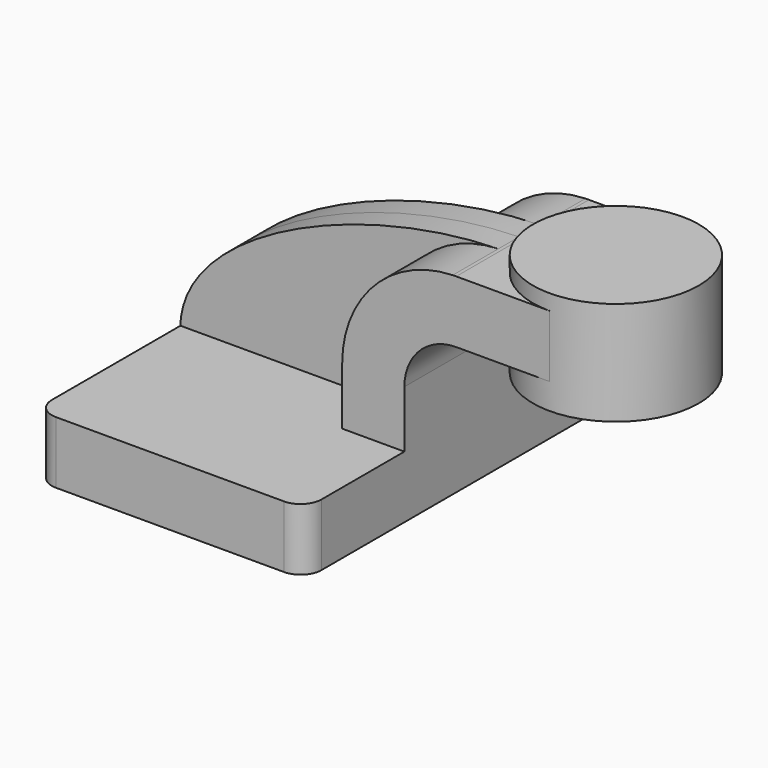
from build123d import *

# Parameters (mm, degrees)
F0_W     = 25.4
F0_H     = 19.05
F1_DEPTH = 25.4
F2_DEPTH = 63.5
F3_DEPTH = 7.9375
F5_R     = 6.35


with BuildPart() as f1:
    # F0 (on Front) → F1 (new body, symmetric)
    with BuildSketch(Plane.XZ):
        with Locations((73.025, 52.4002)):
            Rectangle(F0_W, F0_H)
        with BuildLine():
            Line((22.225, 27.0002), (22.225, 9.525))
            Line((22.225, 9.525), (41.275, 9.525))
            Line((41.275, 9.525), (41.275, 27.0002))
            ThreePointArc((41.275, 27.0002), (45.9246798487, 38.2255201513), (57.15, 42.8752))
            Line((57.15, 42.8752), (60.325, 42.8752))
            Line((60.325, 42.8752), (60.325, 61.9252))
            Line((60.325, 61.9252), (57.15, 61.9252))
            add(Edge.make_bspline(
                [(57.15, 61.9252), (56.7952901296, 61.9213576462), (56.4397740543, 61.9159247713), (56.0834888873, 61.9089120795)],
                knots=[0, 0, 0, 0, 0.9203452137, 0.9203452137, 0.9203452137, 0.9203452137], degree=3))
            ThreePointArc((56.0834888873, 61.9089120795), (32.0800625688, 51.3159122494), (22.225, 27.0002))
        make_face()
    extrude(amount=F1_DEPTH, both=True)

    # F0 (on Front) → F2 (join, symmetric)
    with BuildSketch(Plane.XZ):
        Polygon((22.225, 9.525), (-41.275, 9.525), (-41.275, -9.525), (41.275, -9.525), (41.275, 9.525), align=None)
    extrude(amount=F2_DEPTH, both=True)

    # F0 (on Front) → F3 (join, symmetric)
    with BuildSketch(Plane.XZ):
        with BuildLine():
            add(Edge.make_bspline(
                [(56.0834888873, 61.9089120795), (13.2740013728, 61.0663012405), (-40.6390568029, 37.4154732137), (-41.275, 9.525)],
                knots=[0.9203452137, 0.9203452137, 0.9203452137, 0.9203452137, 111.5045361635, 111.5045361635, 111.5045361635, 111.5045361635], degree=3))
            Line((-41.275, 9.525), (22.225, 9.525))
            Line((22.225, 9.525), (22.225, 27.0002))
            ThreePointArc((22.225, 27.0002), (32.0800625688, 51.3159122494), (56.0834888873, 61.9089120795))
        make_face()
    extrude(amount=F3_DEPTH, both=True)

    # F0 (on Front) → F4 (revolve)
    with BuildSketch(Plane.XZ):
        Polygon((85.725, 66.675), (85.725, 61.9252), (85.725, 42.8752), (85.725, 34.925), (111.125, 34.925), (111.125, 66.675), align=None)
    revolve(axis=Axis((85.725, 0, 50.8), (0, 0, 1)))

    # F5
    f5_edges = [f1.edges().sort_by_distance(p)[0] for p in [
        (41.275, -63.5, 0),
        (-41.275, -63.5, 0),
        (41.275, 63.5, 0),
        (-41.275, 63.5, 0),
    ]]
    fillet(f5_edges, radius=F5_R)


solid = f1.part
